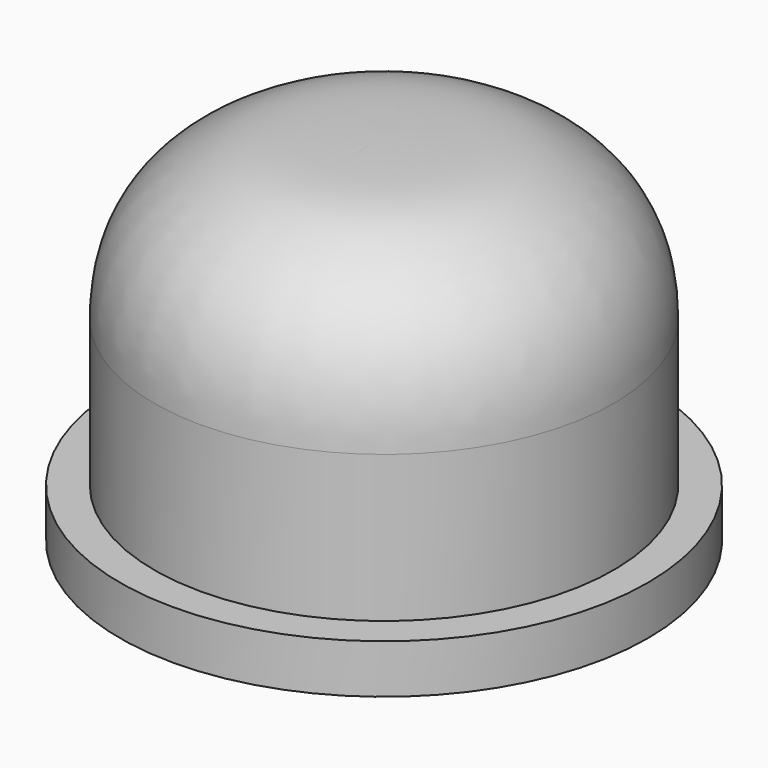
from build123d import *


with BuildPart() as f1:
    # F0 (on Right) → F1 (revolve)
    with BuildSketch(Plane.YZ):
        with BuildLine():
            Line((-27, 0), (-13.5, 0))
            add(Edge.make_bspline(
                [(-13.5, 0), (-13.7703763321, 7.8797023743), (-11.8967334508, 16.8039119382), (-8.3154242858, 20.7879821492), (0, 21.5774838267)],
                knots=[0, 0, 0, 0, 0.5304412775, 1, 1, 1, 1], degree=3))
            Line((0, 21.5774838267), (0, 36.5774838267))
            add(Edge.make_bspline(
                [(0, 36.5774838267), (-9.1990651563, 36.4943034947), (-13.9788389329, 36.13910595), (-23.5, 28.75347808), (-23.5, 20)],
                knots=[0, 0, 0, 0, 0.4868201182, 1, 1, 1, 1], degree=3))
            Line((-23.5, 20), (-23.5, 5))
            Line((-23.5, 5), (-27, 5))
            Line((-27, 5), (-27, 0))
        make_face()
    revolve(axis=Axis((0, 0, 22.5), (0, 0, -1)))


solid = f1.part
